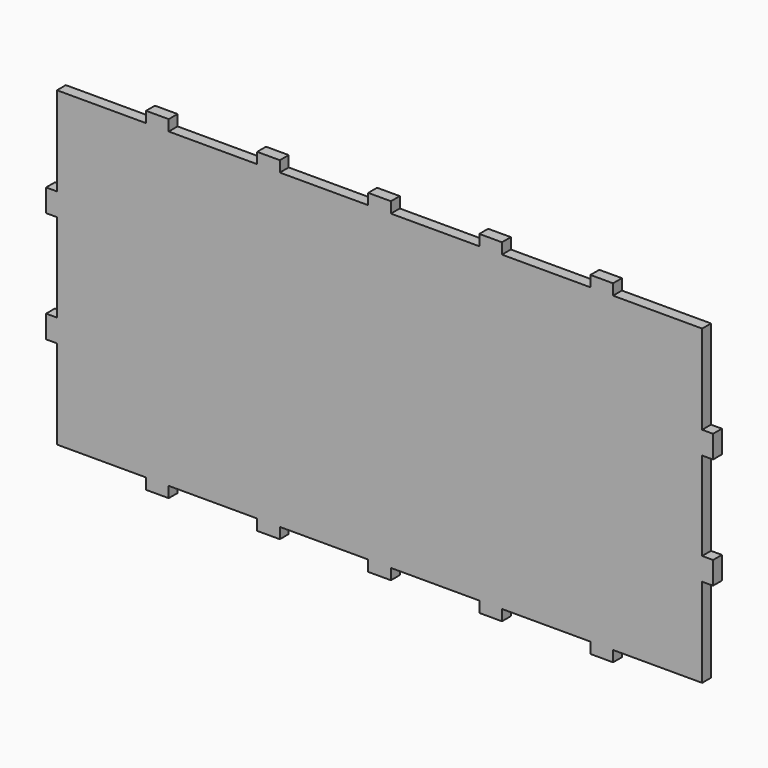
from build123d import *

# Parameters (mm, degrees)
F0_W     = 300.2
F0_H     = 150.2
F1_DEPTH = 5
F2_W     = 4.9
F2_H     = 4.9
F2_W_2   = 40.1
F2_H_2   = 40.1
F2_H_3   = 39.8
F2_W_3   = 39.8
F3_DEPTH = 5


with BuildPart() as f1:
    # F0 (on Front) → F1 (new body)
    with BuildSketch(Plane.XZ):
        Rectangle(F0_W, F0_H)
    extrude(amount=F1_DEPTH)

    # F2 (on face) → F3 (cut, through all)
    with BuildSketch(Plane.XZ.offset(5)):
        with Locations((-147.65, 72.65)):
            Rectangle(F2_W, F2_H)
        with Locations((-125.15, 72.65)):
            Rectangle(F2_W_2, F2_H)
        with Locations((-147.65, 50.15)):
            Rectangle(F2_W, F2_H_2)
        with Locations((-147.65, 0)):
            Rectangle(F2_W, F2_H_3)
        with Locations((-147.65, -50.15)):
            Rectangle(F2_W, F2_H_2)
        with Locations((-147.65, -72.65)):
            Rectangle(F2_W, F2_H)
        with Locations((-125.15, -72.65)):
            Rectangle(F2_W_2, F2_H)
        with Locations((-75, 72.65)):
            Rectangle(F2_W_3, F2_H)
        with Locations((-25, 72.65)):
            Rectangle(F2_W_3, F2_H)
        with Locations((25, 72.65)):
            Rectangle(F2_W_3, F2_H)
        with Locations((75, 72.65)):
            Rectangle(F2_W_3, F2_H)
        with Locations((147.65, 72.65)):
            Rectangle(F2_W, F2_H)
        with Locations((125.15, 72.65)):
            Rectangle(F2_W_2, F2_H)
        with Locations((147.65, 50.15)):
            Rectangle(F2_W, F2_H_2)
        with Locations((25, -72.65)):
            Rectangle(F2_W_3, F2_H)
        with Locations((-25, -72.65)):
            Rectangle(F2_W_3, F2_H)
        with Locations((-75, -72.65)):
            Rectangle(F2_W_3, F2_H)
        with Locations((125.15, -72.65)):
            Rectangle(F2_W_2, F2_H)
        with Locations((147.65, -72.65)):
            Rectangle(F2_W, F2_H)
        with Locations((147.65, -50.15)):
            Rectangle(F2_W, F2_H_2)
        with Locations((75, -72.65)):
            Rectangle(F2_W_3, F2_H)
        with Locations((147.65, 0)):
            Rectangle(F2_W, F2_H_3)
    extrude(amount=-F3_DEPTH, mode=Mode.SUBTRACT)


solid = f1.part
